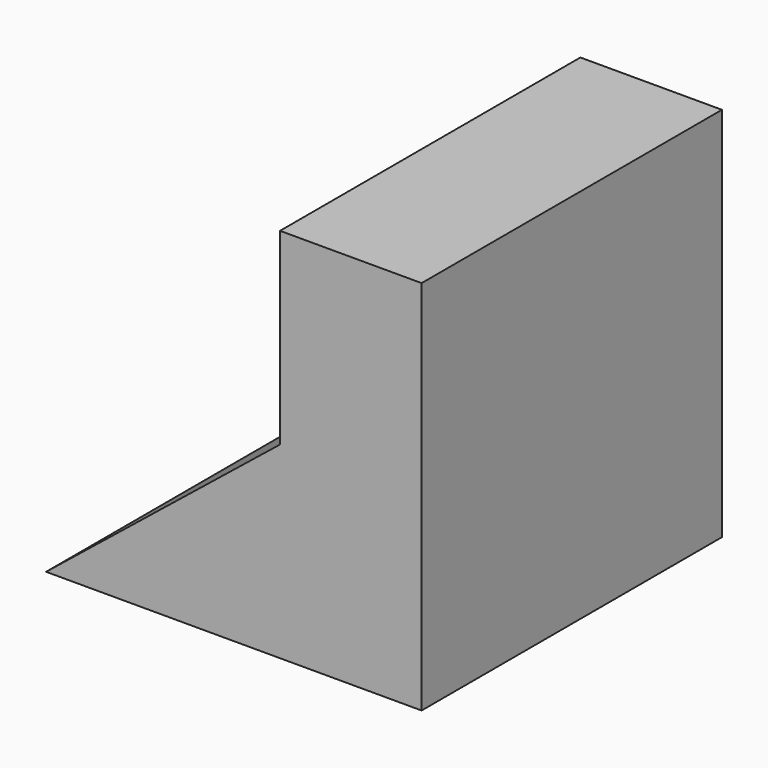
from build123d import *

# Parameters (mm, degrees)
F0_W     = 76.2288123369
F0_H     = 76.380059123
F1_DEPTH = 76.2
F2_W     = 47.4917609245
F2_H     = 38.1900295615
F3_DEPTH = 76.2
F5_DEPTH = 76.2


with BuildPart() as f1:
    # F0 (on Front) → F1 (new body)
    with BuildSketch(Plane.XZ):
        with Locations((-38.1144061685, 38.1900295615)):
            Rectangle(F0_W, F0_H)
    extrude(amount=F1_DEPTH)

    # F2 (on face) → F3 (cut)
    with BuildSketch(Plane.XZ.offset(76.2)):
        with Locations((-52.4829318747, 57.2850443423)):
            Rectangle(F2_W, F2_H)
    extrude(amount=-F3_DEPTH, mode=Mode.SUBTRACT)

    # F4 (on face) → F5 (cut)
    with BuildSketch(Plane.XZ.offset(76.2)):
        Polygon((-76.2288123369, 0), (-28.7370514125, 38.1900295615), (-76.2288123369, 38.1900295615), align=None)
    extrude(amount=-F5_DEPTH, mode=Mode.SUBTRACT)


solid = f1.part
